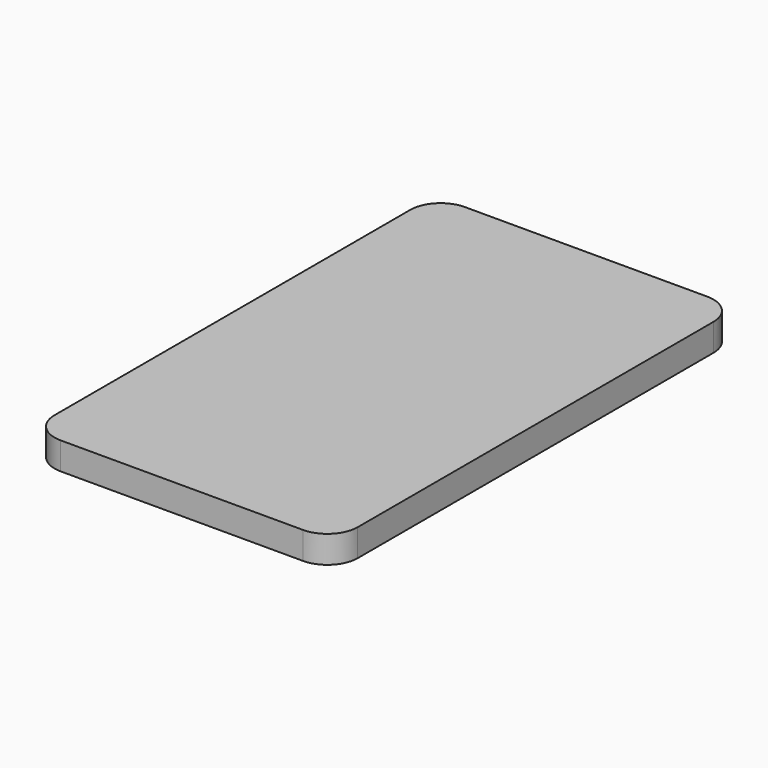
from build123d import *

# Parameters (mm, degrees)
F0_W     = 76.2
F0_H     = 127
F1_DEPTH = 6.858
F2_R     = 7.62
F5_D     = 3.048
F5_DEPTH = 0.0508
F5_TIP   = 0.9157115834


with BuildPart() as f1:
    # F0 (on Top) → F1 (new body)
    with BuildSketch(Plane.XY):
        with Locations((-2.6673331412, -5.7784983073)):
            Rectangle(F0_W, F0_H)
        with Locations((-2.6673331412, -5.7784983073)):
            Rectangle(F0_W, F0_H)
    extrude(amount=F1_DEPTH)

    # F2
    f2_edges = [f1.edges().sort_by_distance(p)[0] for p in [
        (35.432667, 57.721502, 3.429),
        (-40.767333, 57.721502, 3.429),
        (-40.767333, -69.278498, 3.429),
        (35.432667, -69.278498, 3.429),
    ]]
    fillet(f2_edges, radius=F2_R)

    # F5
    with Locations(Plane(origin=(0, 0, 0), x_dir=(1, 0, 0), z_dir=(0, 0, -1))):
        with Locations((-28.2887630165, -53.9115016927)):
            Hole(F5_D / 2, depth=F5_DEPTH)
            with Locations((0, 0, -(F5_DEPTH + F5_TIP / 2))):  # 118° drill point
                Cone(0, F5_D / 2, F5_TIP, mode=Mode.SUBTRACT)


solid = f1.part
